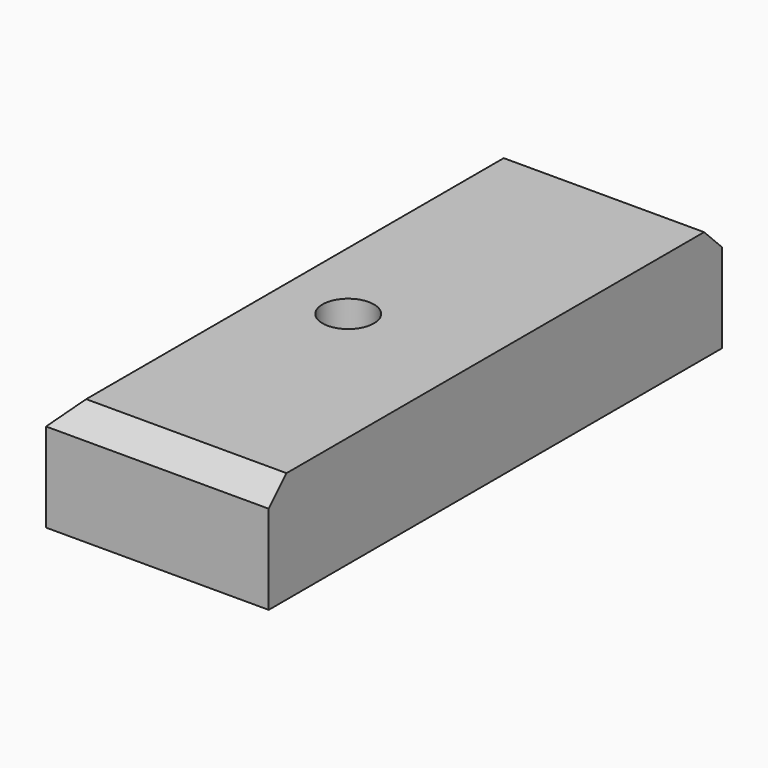
from build123d import *

# Parameters (mm, degrees)
F0_W     = 50.8
F0_H     = 129.256198
F1_DEPTH = 25.4
F2_SIZE  = 5.08
F3_R     = 5.868493
F4_DEPTH = 25.4


with BuildPart() as f1:
    # F0 (on Top) → F1 (new body)
    with BuildSketch(Plane.XY):
        with Locations((-31.694914, 4.688799)):
            Rectangle(F0_W, F0_H)
        with Locations((-31.694914, 4.688799)):
            Rectangle(F0_W, F0_H)
    extrude(amount=-F1_DEPTH)

    # F2
    f2_edges = [f1.edges().sort_by_distance(p)[0] for p in [
        (-57.094914, 4.688799, 0),
        (-31.694914, -59.9393, 0),
        (-31.694914, 69.316898, 0),
    ]]
    chamfer(f2_edges, length=F2_SIZE)

    # F3 (on face) → F4 (cut)
    with BuildSketch(Plane.XY):
        with Locations((-36.104809, 0)):
            Circle(F3_R)
    extrude(amount=-F4_DEPTH, mode=Mode.SUBTRACT)


solid = f1.part
